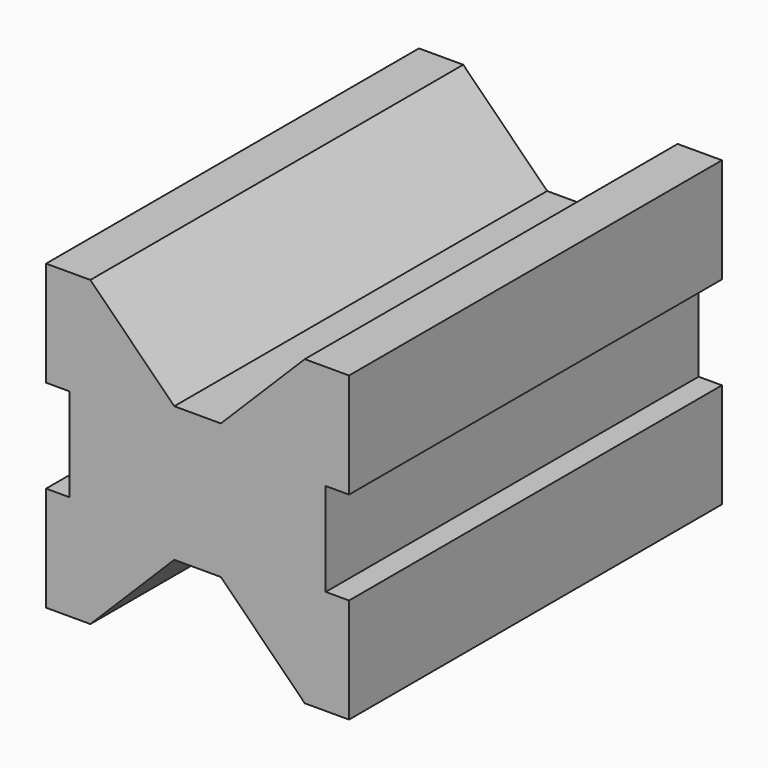
from build123d import *

# Parameters (mm, degrees)
F1_DEPTH = 100


with BuildPart() as f1:
    # F0 (on Front) → F1 (new body)
    with BuildSketch(Plane.XZ):
        Polygon((0, -14.5), (0, 14.5), (-5, 14.5), (-23, 32.5), (-32.5, 32.5), (-32.5, 10), (-27.5, 10), (-27.5, -10), (-32.5, -10), (-32.5, -32.5), (-23, -32.5), (-5, -14.5), align=None)
        Polygon((5, 14.5), (0, 14.5), (0, -14.5), (5, -14.5), (23, -32.5), (32.5, -32.5), (32.5, -10), (27.5, -10), (27.5, 10), (32.5, 10), (32.5, 32.5), (23, 32.5), align=None)
    extrude(amount=F1_DEPTH)


solid = f1.part
